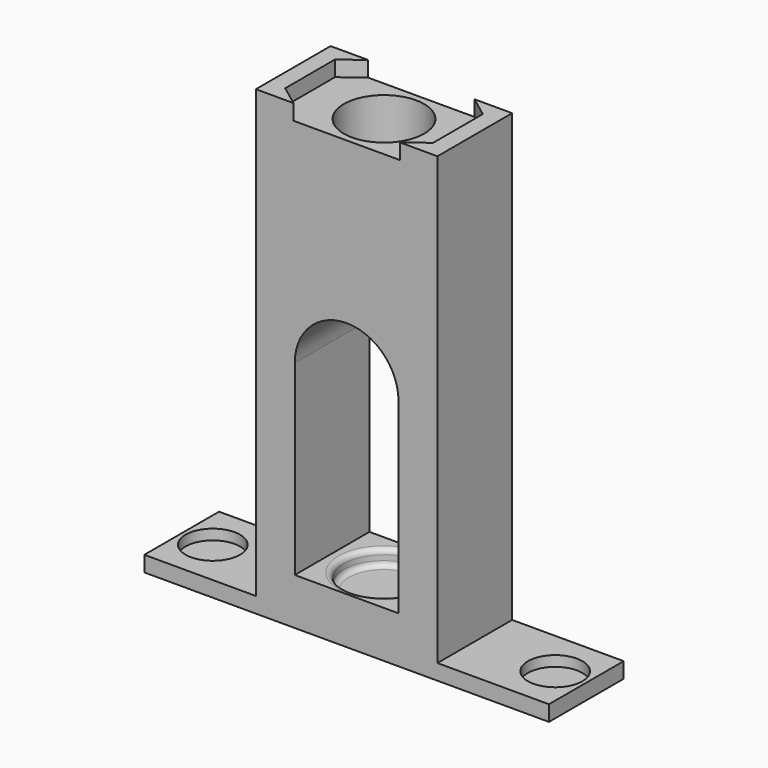
from build123d import *

# Parameters (mm, degrees)
SKETCH063_W            = 78
SKETCH063_H            = 18
PAD020_DEPTH           = 3
SKETCH064_R            = 5.25
POCKET040_DEPTH        = 2
LINEARPATTERN001_COUNT = 2
LINEARPATTERN001_PITCH = 66
SKETCH065_W            = 35
SKETCH065_H            = 18
PAD021_DEPTH           = 86
SKETCH066_R            = 7.75
POCKET041_DEPTH        = 83
POCKET042_DEPTH        = 3
SKETCH068_W            = 20
SKETCH068_H            = 36
POCKET043_DEPTH        = 18.001
SKETCH069_R            = 10
POCKET044_DEPTH        = 18.001
FILLET_R               = 1


with BuildPart() as part:
    # Sketch063 → Pad020 (new body)
    with BuildSketch(Plane.XY):
        with Locations((0, 29.5)):
            Rectangle(SKETCH063_W, SKETCH063_H)
    extrude(amount=PAD020_DEPTH)

    # Sketch064 (on Face6 of Pad020) → Pocket040 (cut)
    with BuildSketch(Plane.XY.offset(3)):
        with Locations((-33, 29.5)):
            Circle(SKETCH064_R)
    pocket040 = extrude(amount=-POCKET040_DEPTH, mode=Mode.SUBTRACT)

    # LinearPattern001: Pocket040 ×2
    with Locations(*[(i * LINEARPATTERN001_PITCH, 0, 0) for i in range(1, LINEARPATTERN001_COUNT)]):
        add(pocket040, mode=Mode.SUBTRACT)

    # Sketch065 (on Face5 of LinearPattern001) → Pad021 (join)
    with BuildSketch(Plane.XY.offset(3)):
        with Locations((0, 29.5)):
            Rectangle(SKETCH065_W, SKETCH065_H)
    extrude(amount=PAD021_DEPTH)

    # Sketch066 (on Face12 of Pad021) → Pocket041 (cut)
    with BuildSketch(Plane.XY.offset(89)):
        with Locations((0, 29.5)):
            Circle(SKETCH066_R)
    extrude(amount=-POCKET041_DEPTH, mode=Mode.SUBTRACT)

    # Sketch067 (on Face12 of Pocket041) → Pocket042 (cut)
    with BuildSketch(Plane.XY.offset(89)):
        Polygon((-10.25, 38.5), (10.25, 38.5), (14.25, 35.5), (14.25, 23.5), (10.25, 20.5), (-10.25, 20.5), (-14.25, 23.5), (-14.25, 35.5), align=None)
    extrude(amount=-POCKET042_DEPTH, mode=Mode.SUBTRACT)

    # Sketch068 (on Face6 of Pocket042) → Pocket043 (cut, through all)
    with BuildSketch(Plane(origin=(0, 38.5, 0), x_dir=(-1, 0, 0), z_dir=(0, 1, 0))):
        with Locations((0, 27)):
            Rectangle(SKETCH068_W, SKETCH068_H)
    extrude(amount=-POCKET043_DEPTH, mode=Mode.SUBTRACT)

    # Sketch069 (on Face22 of Pocket043) → Pocket044 (cut, through all)
    with BuildSketch(Plane.XZ.offset(-20.5)):
        with Locations((0, 45)):
            Circle(SKETCH069_R)
    extrude(amount=-POCKET044_DEPTH, mode=Mode.SUBTRACT)

    # Fillet
    fillet_edges = [part.edges().sort_by_distance(p)[0] for p in [
        (-7.75, 29.5, 9),
        (7.75, 29.5, 7.5),
        (-7.75, 29.5, 6),
    ]]
    fillet(fillet_edges, radius=FILLET_R)


with BuildPart() as part_1:
    # Body005 placement: moved
    add(part.part.moved(Location((0, 0, 32))))


solid = part_1.part
